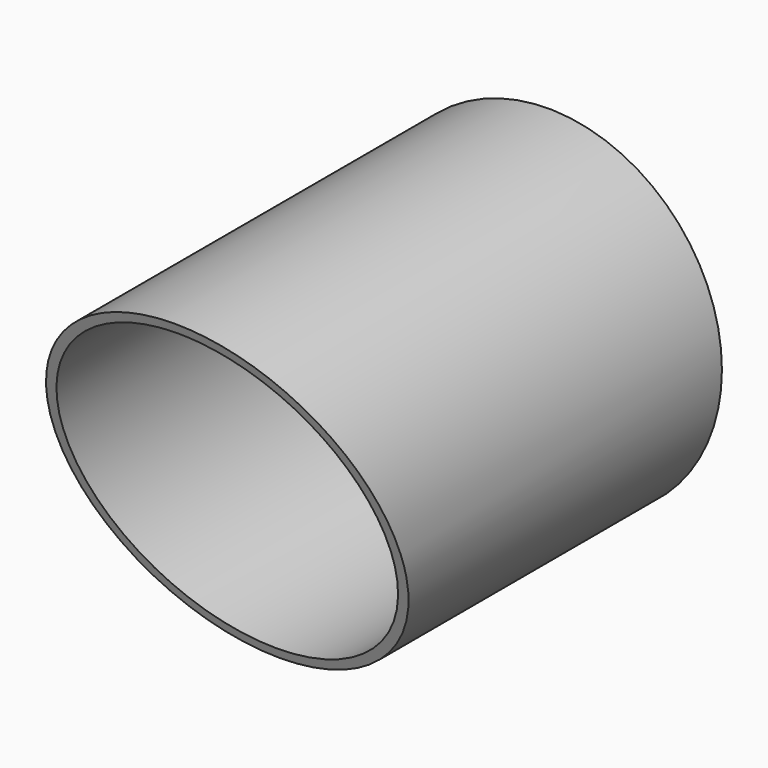
from build123d import *

# Parameters (mm, degrees)
F0_R          = 26
F0_R_2        = 24.5
F1_DEPTH      = 70
F3_DEPTH      = 30
F3_DEPTH_BACK = 30


with BuildPart() as f1:
    # F0 (on Front) → F1 (new body)
    with BuildSketch(Plane.XZ):
        Circle(F0_R)
        Circle(F0_R_2, mode=Mode.SUBTRACT)
    extrude(amount=F1_DEPTH)

    # F2 (on Right) → F3 (cut, two sides)
    with BuildSketch(Plane.YZ) as f3_sk:
        Polygon((-70.4779922962, 27.6006255299), (-73.6822113395, -28.3969733864), (-49.421671778, -28.3969733864), align=None)
    extrude(amount=-F3_DEPTH, mode=Mode.SUBTRACT)
    extrude(f3_sk.sketch, amount=F3_DEPTH_BACK, mode=Mode.SUBTRACT)


solid = f1.part
